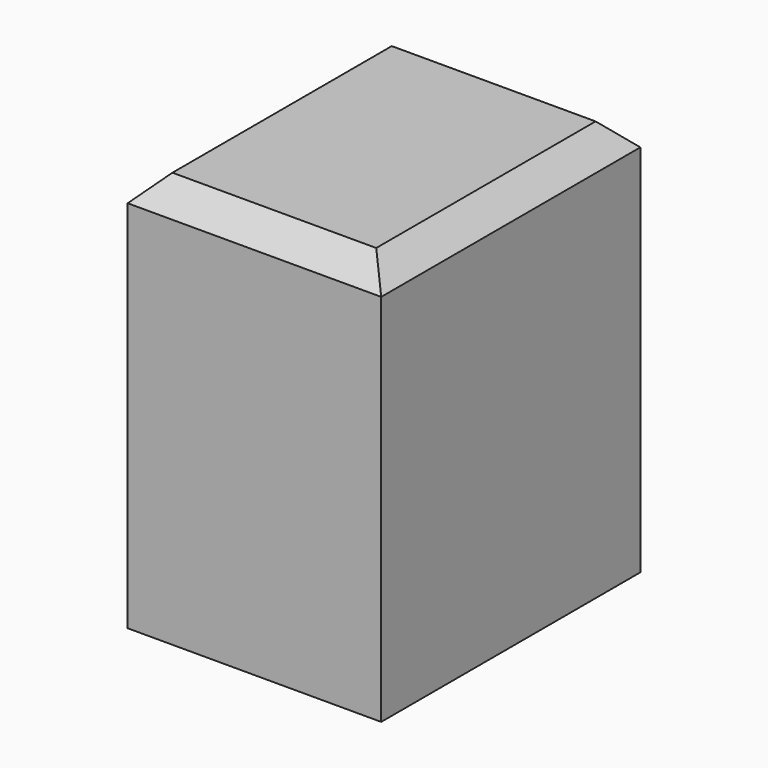
from build123d import *

# Parameters (mm, degrees)
F0_W     = 51.81
F0_H     = 66.185116
F1_DEPTH = 81.534
F2_SIZE  = 5.08


with BuildPart() as f1:
    # F0 (on Top) → F1 (new body)
    with BuildSketch(Plane.XY):
        Rectangle(F0_W, F0_H)
    extrude(amount=F1_DEPTH)

    # F2
    f2_edges = [f1.edges().sort_by_distance(p)[0] for p in [
        (0, -33.092558, 81.534),
        (25.905, 0, 81.534),
        (0, 33.092558, 81.534),
        (-25.905, 0, 81.534),
    ]]
    chamfer(f2_edges, length=F2_SIZE)


solid = f1.part
